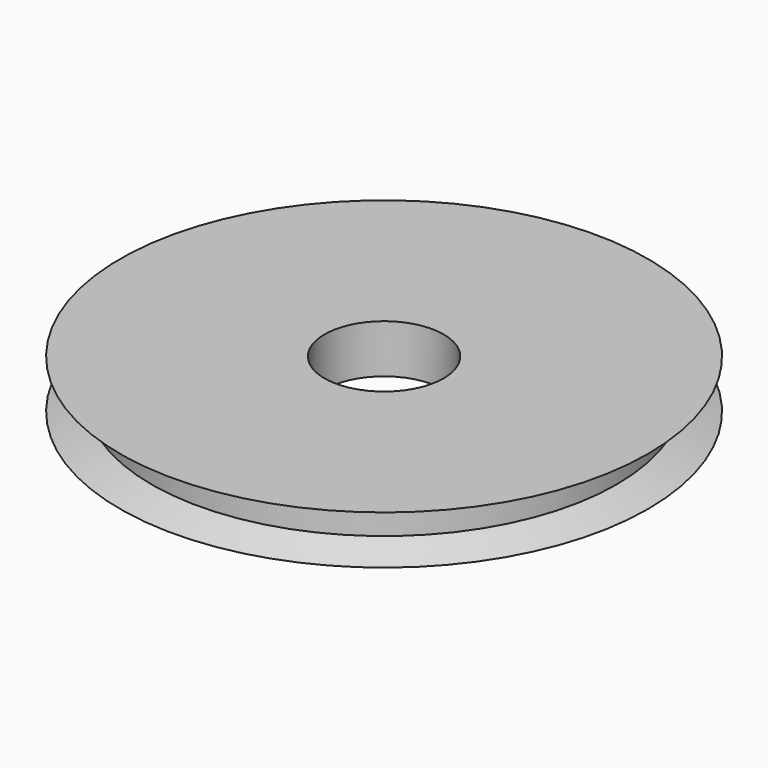
from build123d import *


with BuildPart() as part:
    # Sketch → Revolution (revolve)
    with BuildSketch(Plane.XZ):
        Polygon((15.937718, 6.5), (15.937718, -6.5), (70.637718, -6.5), (62.237718, -3.44265), (62.237718, 3.44265), (70.637718, 6.5), align=None)
    revolve(axis=Axis((0, 0, 0), (0, 0, 1)))


solid = part.part
